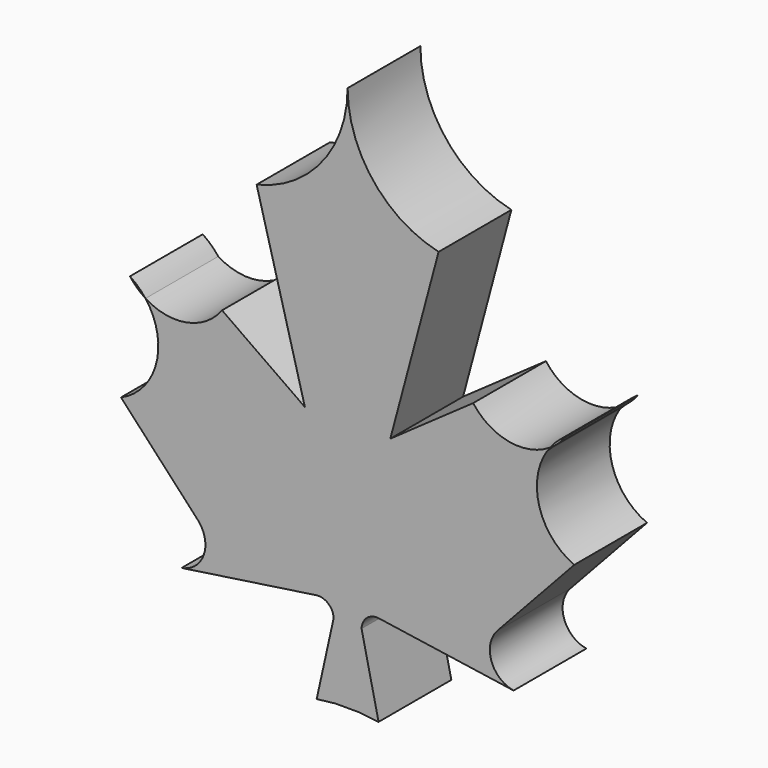
from build123d import *

# Parameters (mm, degrees)
F1_DEPTH = 30


with BuildPart() as f1:
    # F0 (on Front) → F1 (new body)
    with BuildSketch(Plane.XZ):
        with BuildLine():
            Line((-11.742471, -55.76813), (-7.742479, -55.776144))
            Line((-7.742479, -55.776144), (-3.742487, -55.76813))
            Line((-3.742487, -55.76813), (2.46387, -56.484219))
            Line((2.46387, -56.484219), (-3.13618, -31.224025))
            ThreePointArc((-3.13618, -31.224025), (-1.351815, -27.507826), (2.613153, -26.379499))
            Line((2.613153, -26.379499), (47.003828, -32.893644))
            ThreePointArc((47.003828, -32.893644), (39.663303, -26.65047), (41.668944, -17.225083))
            Line((41.668944, -17.225083), (67.003828, 10.106733))
            ThreePointArc((67.003828, 10.106733), (55.54497, 23.076834), (58.019758, 40.205884))
            ThreePointArc((58.019758, 40.205884), (58.455897, 40.849029), (58.915983, 41.475266))
            ThreePointArc((58.915983, 41.475266), (45.360152, 38.90184), (33.670254, 46.23187))
            Line((33.670254, 46.23187), (6.345525, 27.020794))
            Line((6.345525, 27.020794), (22.266055, 86.437023))
            ThreePointArc((22.266055, 86.437023), (0.672242, 100.097331), (-7.742479, 124.223856))
            ThreePointArc((-7.742479, 124.223856), (-16.157201, 100.097331), (-37.751014, 86.437023))
            Line((-37.751014, 86.437023), (-21.830484, 27.020794))
            Line((-21.830484, 27.020794), (-49.155213, 46.23187))
            ThreePointArc((-49.155213, 46.23187), (-60.845111, 38.90184), (-74.400942, 41.475266))
            ThreePointArc((-74.400942, 41.475266), (-70.821758, 23.825511), (-82.488786, 10.106733))
            Line((-82.488786, 10.106733), (-57.153903, -17.225083))
            ThreePointArc((-57.153903, -17.225083), (-55.148262, -26.65047), (-62.488786, -32.893644))
            Line((-62.488786, -32.893644), (-18.098112, -26.379499))
            ThreePointArc((-18.098112, -26.379499), (-14.133144, -27.507826), (-12.348779, -31.224025))
            Line((-12.348779, -31.224025), (-17.948829, -56.484219))
            Line((-17.948829, -56.484219), (-11.742471, -55.76813))
        make_face()
        with BuildLine():
            ThreePointArc((-79.530704, 46.23187), (-77.187919, 43.614048), (-74.400942, 41.475266))
            ThreePointArc((-74.400942, 41.475266), (-76.762418, 44.07293), (-79.530704, 46.23187))
        make_face()
        with BuildLine():
            ThreePointArc((58.915983, 41.475266), (58.455897, 40.849029), (58.019758, 40.205884))
            Line((58.019758, 40.205884), (60.092831, 42.278957))
            ThreePointArc((60.092831, 42.278957), (59.511988, 41.866011), (58.915983, 41.475266))
        make_face()
        with BuildLine():
            ThreePointArc((58.915983, 41.475266), (59.511988, 41.866011), (60.092831, 42.278957))
            Line((60.092831, 42.278957), (64.045745, 46.23187))
            ThreePointArc((64.045745, 46.23187), (61.277459, 44.07293), (58.915983, 41.475266))
        make_face()
        with BuildLine():
            Line((64.045745, 46.23187), (60.092831, 42.278957))
            ThreePointArc((60.092831, 42.278957), (62.216312, 44.108389), (64.045745, 46.23187))
        make_face()
    extrude(amount=F1_DEPTH)


solid = f1.part
